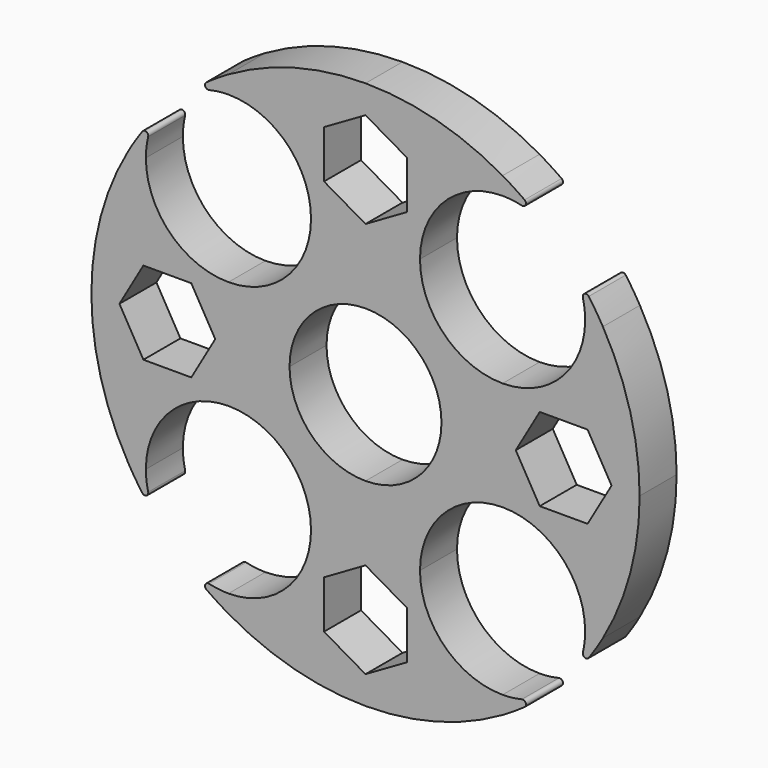
from build123d import *

# Parameters (mm, degrees)
F1_DEPTH = 7
F2_R     = 0.5
F4_DEPTH = 25


with BuildPart() as f1:
    # F0 (on Front) → F1 (new body)
    with BuildSketch(Plane.XZ):
        with BuildLine():
            Line((-8.25, 20.75), (0, 20.75))
            Line((0, 20.75), (0, 41.5))
            ThreePointArc((0, 41.5), (-10.7409903718, 40.085921791), (-20.75, 35.9400542571))
            Line((-20.75, 35.9400542571), (-20.75, 33.25))
            ThreePointArc((-20.75, 33.25), (-11.9111652352, 29.5888347648), (-8.25, 20.75))
        make_face()
        with BuildLine():
            Line((0, 41.5), (0, 20.75))
            Line((0, 20.75), (8.25, 20.75))
            ThreePointArc((8.25, 20.75), (11.9111652352, 29.5888347648), (20.75, 33.25))
            Line((20.75, 33.25), (20.75, 35.9400542571))
            ThreePointArc((20.75, 35.9400542571), (10.7409903718, 40.085921791), (0, 41.5))
        make_face()
        with BuildLine():
            ThreePointArc((-11.5, 0), (-8.1317279836, 8.1317279836), (0, 11.5))
            Line((0, 11.5), (0, 20.75))
            Line((0, 20.75), (-8.25, 20.75))
            ThreePointArc((-8.25, 20.75), (-11.9111652352, 11.9111652352), (-20.75, 8.25))
            Line((-20.75, 8.25), (-20.75, 0))
            Line((-20.75, 0), (-11.5, 0))
        make_face()
        with BuildLine():
            ThreePointArc((0, 11.5), (8.1317279836, 8.1317279836), (11.5, 0))
            Line((11.5, 0), (20.75, 0))
            Line((20.75, 0), (20.75, 8.25))
            ThreePointArc((20.75, 8.25), (11.9111652352, 11.9111652352), (8.25, 20.75))
            Line((8.25, 20.75), (0, 20.75))
            Line((0, 20.75), (0, 11.5))
        make_face()
        with BuildLine():
            Line((20.75, 8.25), (20.75, 0))
            Line((20.75, 0), (41.5, 0))
            ThreePointArc((41.5, 0), (40.085921791, 10.7409903718), (35.9400542571, 20.75))
            Line((35.9400542571, 20.75), (33.25, 20.75))
            ThreePointArc((33.25, 20.75), (29.5888347648, 11.9111652352), (20.75, 8.25))
        make_face()
        with BuildLine():
            Line((-41.5, 0), (-20.75, 0))
            Line((-20.75, 0), (-20.75, 8.25))
            ThreePointArc((-20.75, 8.25), (-29.5888347648, 11.9111652352), (-33.25, 20.75))
            Line((-33.25, 20.75), (-35.9400542571, 20.75))
            ThreePointArc((-35.9400542571, 20.75), (-40.085921791, 10.7409903718), (-41.5, 0))
        make_face()
        with BuildLine():
            Line((-20.75, -8.25), (-20.75, 0))
            Line((-20.75, 0), (-41.5, 0))
            ThreePointArc((-41.5, 0), (-40.085921791, -10.7409903718), (-35.9400542571, -20.75))
            Line((-35.9400542571, -20.75), (-33.25, -20.75))
            ThreePointArc((-33.25, -20.75), (-29.5888347648, -11.9111652352), (-20.75, -8.25))
        make_face()
        with BuildLine():
            Line((0, -20.75), (0, -11.5))
            ThreePointArc((0, -11.5), (-8.1317279836, -8.1317279836), (-11.5, 0))
            Line((-11.5, 0), (-20.75, 0))
            Line((-20.75, 0), (-20.75, -8.25))
            ThreePointArc((-20.75, -8.25), (-11.9111652352, -11.9111652352), (-8.25, -20.75))
            Line((-8.25, -20.75), (0, -20.75))
        make_face()
        with BuildLine():
            Line((0, -41.5), (0, -20.75))
            Line((0, -20.75), (-8.25, -20.75))
            ThreePointArc((-8.25, -20.75), (-11.9111652352, -29.5888347648), (-20.75, -33.25))
            Line((-20.75, -33.25), (-20.75, -35.9400542571))
            ThreePointArc((-20.75, -35.9400542571), (-10.7409903718, -40.085921791), (0, -41.5))
        make_face()
        with BuildLine():
            Line((8.25, -20.75), (0, -20.75))
            Line((0, -20.75), (0, -41.5))
            ThreePointArc((0, -41.5), (10.7409903718, -40.085921791), (20.75, -35.9400542571))
            Line((20.75, -35.9400542571), (20.75, -33.25))
            ThreePointArc((20.75, -33.25), (11.9111652352, -29.5888347648), (8.25, -20.75))
        make_face()
        with BuildLine():
            Line((20.75, 0), (11.5, 0))
            ThreePointArc((11.5, 0), (8.1317279836, -8.1317279836), (0, -11.5))
            Line((0, -11.5), (0, -20.75))
            Line((0, -20.75), (8.25, -20.75))
            ThreePointArc((8.25, -20.75), (11.9111652352, -11.9111652352), (20.75, -8.25))
            Line((20.75, -8.25), (20.75, 0))
        make_face()
        with BuildLine():
            Line((41.5, 0), (20.75, 0))
            Line((20.75, 0), (20.75, -8.25))
            ThreePointArc((20.75, -8.25), (29.5888347648, -11.9111652352), (33.25, -20.75))
            Line((33.25, -20.75), (35.9400542571, -20.75))
            ThreePointArc((35.9400542571, -20.75), (40.085921791, -10.7409903718), (41.5, 0))
        make_face()
        with BuildLine():
            Line((20.75, -33.25), (20.75, -35.9400542571))
            ThreePointArc((20.75, -35.9400542571), (23.8658688823, -33.9509985493), (26.7923769536, -31.6925628054))
            ThreePointArc((26.7923769536, -31.6925628054), (23.8699330868, -32.854380097), (20.75, -33.25))
        make_face()
        with BuildLine():
            ThreePointArc((31.6925628054, -26.7923769536), (33.9509985493, -23.8658688823), (35.9400542571, -20.75))
            Line((35.9400542571, -20.75), (33.25, -20.75))
            ThreePointArc((33.25, -20.75), (32.854380097, -23.8699330868), (31.6925628054, -26.7923769536))
        make_face()
        with BuildLine():
            ThreePointArc((-26.7923769536, -31.6925628054), (-23.8658688823, -33.9509985493), (-20.75, -35.9400542571))
            Line((-20.75, -35.9400542571), (-20.75, -33.25))
            ThreePointArc((-20.75, -33.25), (-23.8699330868, -32.854380097), (-26.7923769536, -31.6925628054))
        make_face()
        with BuildLine():
            Line((-33.25, -20.75), (-35.9400542571, -20.75))
            ThreePointArc((-35.9400542571, -20.75), (-33.9509985493, -23.8658688823), (-31.6925628054, -26.7923769536))
            ThreePointArc((-31.6925628054, -26.7923769536), (-32.854380097, -23.8699330868), (-33.25, -20.75))
        make_face()
        with BuildLine():
            ThreePointArc((-31.6925628054, 26.7923769536), (-33.9509985493, 23.8658688823), (-35.9400542571, 20.75))
            Line((-35.9400542571, 20.75), (-33.25, 20.75))
            ThreePointArc((-33.25, 20.75), (-32.854380097, 23.8699330868), (-31.6925628054, 26.7923769536))
        make_face()
        with BuildLine():
            Line((-20.75, 33.25), (-20.75, 35.9400542571))
            ThreePointArc((-20.75, 35.9400542571), (-23.8658688823, 33.9509985493), (-26.7923769536, 31.6925628054))
            ThreePointArc((-26.7923769536, 31.6925628054), (-23.8699330868, 32.854380097), (-20.75, 33.25))
        make_face()
        with BuildLine():
            ThreePointArc((26.7923769536, 31.6925628054), (23.8658688823, 33.9509985493), (20.75, 35.9400542571))
            Line((20.75, 35.9400542571), (20.75, 33.25))
            ThreePointArc((20.75, 33.25), (23.8699330868, 32.854380097), (26.7923769536, 31.6925628054))
        make_face()
        with BuildLine():
            Line((33.25, 20.75), (35.9400542571, 20.75))
            ThreePointArc((35.9400542571, 20.75), (33.9509985493, 23.8658688823), (31.6925628054, 26.7923769536))
            ThreePointArc((31.6925628054, 26.7923769536), (32.854380097, 23.8699330868), (33.25, 20.75))
        make_face()
    extrude(amount=F1_DEPTH)

    # F2
    f2_edges = [f1.edges().sort_by_distance(p)[0] for p in [
        (26.792377, -3.5, 31.692563),
        (31.692563, -3.5, 26.792377),
        (31.692563, -3.5, -26.792377),
        (26.792377, -3.5, -31.692563),
        (-26.792377, -3.5, -31.692563),
        (-31.692563, -3.5, -26.792377),
        (-26.792377, -3.5, 31.692563),
        (-31.692563, -3.5, 26.792377),
    ]]
    fillet(f2_edges, radius=F2_R)

    # F3 (on face) → F4 (cut)
    with BuildSketch(Plane.XZ.offset(7)):
        Polygon((6.2786841774, 33.625), (0, 37.25), (-6.2786841774, 33.625), (-6.2786841774, 26.375), (0, 22.75), (6.2786841774, 26.375), align=None)
        Polygon((33.625, -6.2786841774), (37.25, 0), (33.625, 6.2786841774), (26.375, 6.2786841774), (22.75, 0), (26.375, -6.2786841774), align=None)
        Polygon((-6.2786841774, -33.625), (0, -37.25), (6.2786841774, -33.625), (6.2786841774, -26.375), (0, -22.75), (-6.2786841774, -26.375), align=None)
        Polygon((-33.625, 6.2786841774), (-37.25, 0), (-33.625, -6.2786841774), (-26.375, -6.2786841774), (-22.75, 0), (-26.375, 6.2786841774), align=None)
    extrude(amount=-F4_DEPTH, mode=Mode.SUBTRACT)


solid = f1.part
